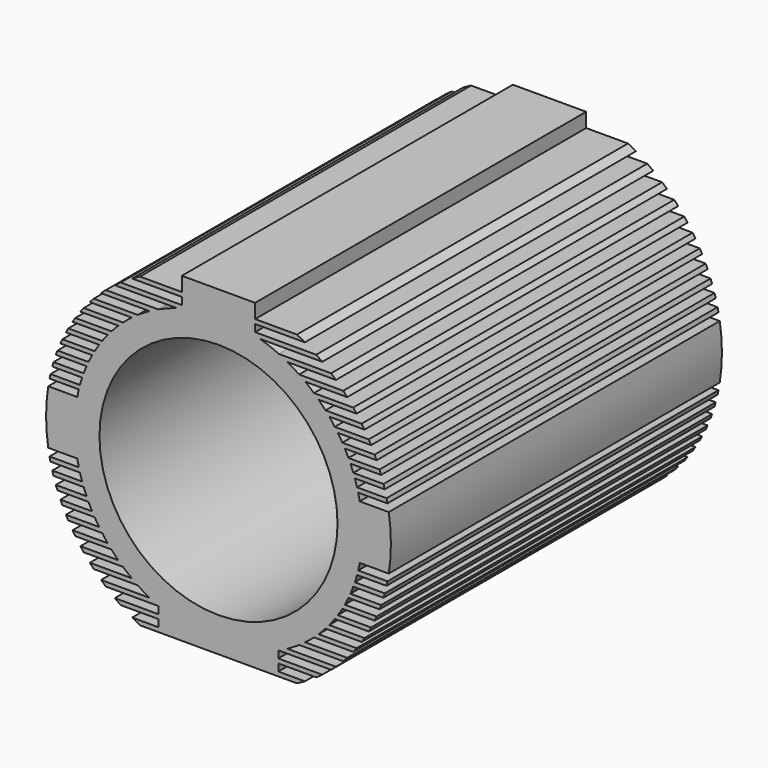
from build123d import *

# Parameters (mm, degrees)
F0_R     = 263.061008
F1_DEPTH = 914.4


with BuildPart() as f1:
    # F0 (on Front) → F1 (new body)
    with BuildSketch(Plane.XZ):
        with BuildLine():
            Line((306.118615, -85.261008), (371.337529, -85.261008))
            ThreePointArc((371.337529, -85.261008), (372.397543, -80.505092), (373.396648, -75.736008))
            Line((373.396648, -75.736008), (308.613193, -75.736008))
            ThreePointArc((308.613193, -75.736008), (307.402798, -80.50817), (306.118615, -85.261008))
        make_face()
        with BuildLine():
            ThreePointArc((301.246666, -101.136008), (303.786356, -93.230338), (306.118615, -85.261008))
            ThreePointArc((306.118615, -85.261008), (307.402798, -80.50817), (308.613193, -75.736008))
            Line((308.613193, -75.736008), (308.613193, -59.861008))
            Line((308.613193, -59.861008), (312.081248, -59.861008))
            ThreePointArc((312.081248, -59.861008), (316.344937, -30.065375), (317.770429, 0))
            ThreePointArc((317.770429, 0), (316.344937, 30.065375), (312.081248, 59.861008))
            Line((312.081248, 59.861008), (308.613193, 59.861008))
            Line((308.613193, 59.861008), (308.613193, 75.736008))
            ThreePointArc((308.613193, 75.736008), (307.402798, 80.50817), (306.118615, 85.261008))
            ThreePointArc((306.118615, 85.261008), (303.786356, 93.230338), (301.246666, 101.136008))
            ThreePointArc((301.246666, 101.136008), (299.60093, 105.91189), (297.879484, 110.661008))
            ThreePointArc((297.879484, 110.661008), (294.79185, 118.641523), (291.490454, 126.536008))
            ThreePointArc((291.490454, 126.536008), (289.36841, 131.316294), (287.167979, 136.061008))
            ThreePointArc((287.167979, 136.061008), (283.242261, 144.055084), (279.094062, 151.936008))
            ThreePointArc((279.094062, 151.936008), (276.435043, 156.721768), (273.693969, 161.461008))
            ThreePointArc((273.693969, 161.461008), (268.806898, 169.472409), (263.685392, 177.336008))
            ThreePointArc((263.685392, 177.336008), (260.397933, 182.128971), (257.023364, 186.861008))
            ThreePointArc((257.023364, 186.861008), (250.985252, 194.895996), (244.69605, 202.736008))
            ThreePointArc((244.69605, 202.736008), (240.635707, 207.539158), (236.481099, 212.261008))
            ThreePointArc((236.481099, 212.261008), (228.981068, 220.330925), (221.205804, 228.136008))
            ThreePointArc((221.205804, 228.136008), (216.124916, 232.955074), (210.93907, 237.661008))
            ThreePointArc((210.93907, 237.661008), (201.409012, 245.789454), (191.566016, 253.536008))
            ThreePointArc((191.566016, 253.536008), (184.974783, 258.384163), (178.26091, 263.061008))
            ThreePointArc((178.26091, 263.061008), (165.433975, 271.310976), (152.225981, 278.936008))
            ThreePointArc((152.225981, 278.936008), (142.841286, 283.856324), (133.29776, 288.461008))
            ThreePointArc((133.29776, 288.461008), (112.638965, 297.13719), (91.42013, 304.336008))
            ThreePointArc((91.42013, 304.336008), (86.206624, 305.853664), (80.967948, 307.282016))
            ThreePointArc((80.967948, 307.282016), (0, 317.770429), (-80.967948, 307.282016))
            ThreePointArc((-80.967948, 307.282016), (-86.206624, 305.853664), (-91.42013, 304.336008))
            ThreePointArc((-91.42013, 304.336008), (-112.638965, 297.13719), (-133.29776, 288.461008))
            ThreePointArc((-133.29776, 288.461008), (-142.841286, 283.856324), (-152.225981, 278.936008))
            ThreePointArc((-152.225981, 278.936008), (-165.433975, 271.310976), (-178.26091, 263.061008))
            ThreePointArc((-178.26091, 263.061008), (-184.974783, 258.384163), (-191.566016, 253.536008))
            ThreePointArc((-191.566016, 253.536008), (-201.409012, 245.789454), (-210.93907, 237.661008))
            ThreePointArc((-210.93907, 237.661008), (-216.124916, 232.955074), (-221.205804, 228.136008))
            ThreePointArc((-221.205804, 228.136008), (-228.981068, 220.330925), (-236.481099, 212.261008))
            ThreePointArc((-236.481099, 212.261008), (-240.635707, 207.539158), (-244.69605, 202.736008))
            ThreePointArc((-244.69605, 202.736008), (-250.985252, 194.895996), (-257.023364, 186.861008))
            ThreePointArc((-257.023364, 186.861008), (-260.397933, 182.128971), (-263.685392, 177.336008))
            ThreePointArc((-263.685392, 177.336008), (-268.806898, 169.472409), (-273.693969, 161.461008))
            ThreePointArc((-273.693969, 161.461008), (-276.435043, 156.721768), (-279.094062, 151.936008))
            ThreePointArc((-279.094062, 151.936008), (-283.242261, 144.055084), (-287.167979, 136.061008))
            ThreePointArc((-287.167979, 136.061008), (-289.36841, 131.316294), (-291.490454, 126.536008))
            ThreePointArc((-291.490454, 126.536008), (-294.79185, 118.641523), (-297.879484, 110.661008))
            ThreePointArc((-297.879484, 110.661008), (-299.60093, 105.91189), (-301.246666, 101.136008))
            ThreePointArc((-301.246666, 101.136008), (-303.786356, 93.230338), (-306.118615, 85.261008))
            ThreePointArc((-306.118615, 85.261008), (-307.402798, 80.50817), (-308.613193, 75.736008))
            Line((-308.613193, 75.736008), (-308.613193, 59.861008))
            Line((-308.613193, 59.861008), (-312.081248, 59.861008))
            ThreePointArc((-312.081248, 59.861008), (-317.770429, 0), (-312.081248, -59.861008))
            Line((-312.081248, -59.861008), (-308.613193, -59.861008))
            Line((-308.613193, -59.861008), (-308.613193, -75.736008))
            ThreePointArc((-308.613193, -75.736008), (-307.402798, -80.50817), (-306.118615, -85.261008))
            ThreePointArc((-306.118615, -85.261008), (-303.786356, -93.230338), (-301.246666, -101.136008))
            ThreePointArc((-301.246666, -101.136008), (-299.60093, -105.91189), (-297.879484, -110.661008))
            ThreePointArc((-297.879484, -110.661008), (-294.79185, -118.641523), (-291.490454, -126.536008))
            ThreePointArc((-291.490454, -126.536008), (-289.36841, -131.316294), (-287.167979, -136.061008))
            ThreePointArc((-287.167979, -136.061008), (-283.242261, -144.055084), (-279.094062, -151.936008))
            ThreePointArc((-279.094062, -151.936008), (-276.435043, -156.721768), (-273.693969, -161.461008))
            ThreePointArc((-273.693969, -161.461008), (-268.806898, -169.472409), (-263.685392, -177.336008))
            ThreePointArc((-263.685392, -177.336008), (-260.397933, -182.128971), (-257.023364, -186.861008))
            ThreePointArc((-257.023364, -186.861008), (-250.985252, -194.895996), (-244.69605, -202.736008))
            ThreePointArc((-244.69605, -202.736008), (-240.635707, -207.539158), (-236.481099, -212.261008))
            ThreePointArc((-236.481099, -212.261008), (-228.981068, -220.330925), (-221.205804, -228.136008))
            ThreePointArc((-221.205804, -228.136008), (-216.124916, -232.955074), (-210.93907, -237.661008))
            ThreePointArc((-210.93907, -237.661008), (-201.409012, -245.789454), (-191.566016, -253.536008))
            ThreePointArc((-191.566016, -253.536008), (-184.974783, -258.384163), (-178.26091, -263.061008))
            ThreePointArc((-178.26091, -263.061008), (-165.433975, -271.310976), (-152.225981, -278.936008))
            ThreePointArc((-152.225981, -278.936008), (-142.841286, -283.856324), (-133.29776, -288.461008))
            ThreePointArc((-133.29776, -288.461008), (-132.687346, -288.742297), (-132.076338, -289.022295))
            ThreePointArc((-132.076338, -289.022295), (0, -317.770429), (132.076338, -289.022295))
            ThreePointArc((132.076338, -289.022295), (132.687346, -288.742297), (133.29776, -288.461008))
            ThreePointArc((133.29776, -288.461008), (142.841286, -283.856324), (152.225981, -278.936008))
            ThreePointArc((152.225981, -278.936008), (165.433975, -271.310976), (178.26091, -263.061008))
            ThreePointArc((178.26091, -263.061008), (184.974783, -258.384163), (191.566016, -253.536008))
            ThreePointArc((191.566016, -253.536008), (201.409012, -245.789454), (210.93907, -237.661008))
            ThreePointArc((210.93907, -237.661008), (216.124916, -232.955074), (221.205804, -228.136008))
            ThreePointArc((221.205804, -228.136008), (228.981068, -220.330925), (236.481099, -212.261008))
            ThreePointArc((236.481099, -212.261008), (240.635707, -207.539158), (244.69605, -202.736008))
            ThreePointArc((244.69605, -202.736008), (250.985252, -194.895996), (257.023364, -186.861008))
            ThreePointArc((257.023364, -186.861008), (260.397933, -182.128971), (263.685392, -177.336008))
            ThreePointArc((263.685392, -177.336008), (268.806898, -169.472409), (273.693969, -161.461008))
            ThreePointArc((273.693969, -161.461008), (276.435043, -156.721768), (279.094062, -151.936008))
            ThreePointArc((279.094062, -151.936008), (283.242261, -144.055084), (287.167979, -136.061008))
            ThreePointArc((287.167979, -136.061008), (289.36841, -131.316294), (291.490454, -126.536008))
            ThreePointArc((291.490454, -126.536008), (294.79185, -118.641523), (297.879484, -110.661008))
            ThreePointArc((297.879484, -110.661008), (299.60093, -105.91189), (301.246666, -101.136008))
        make_face()
        Circle(F0_R, mode=Mode.SUBTRACT)
        with BuildLine():
            Line((308.613193, -59.861008), (308.613193, -75.736008))
            ThreePointArc((308.613193, -75.736008), (310.44871, -67.820679), (312.081248, -59.861008))
            Line((312.081248, -59.861008), (308.613193, -59.861008))
        make_face()
        with BuildLine():
            Line((367.331605, -101.136008), (301.246666, -101.136008))
            ThreePointArc((301.246666, -101.136008), (299.60093, -105.91189), (297.879484, -110.661008))
            Line((297.879484, -110.661008), (364.575289, -110.661008))
            ThreePointArc((364.575289, -110.661008), (365.984435, -105.907475), (367.331605, -101.136008))
        make_face()
        with BuildLine():
            ThreePointArc((317.770429, 0), (316.344937, -30.065375), (312.081248, -59.861008))
            Line((312.081248, -59.861008), (376.268069, -59.861008))
            ThreePointArc((376.268069, -59.861008), (381, 0), (376.268069, 59.861008))
            Line((376.268069, 59.861008), (312.081248, 59.861008))
            ThreePointArc((312.081248, 59.861008), (316.344937, 30.065375), (317.770429, 0))
        make_face()
        with BuildLine():
            Line((359.373954, -126.536008), (291.490454, -126.536008))
            ThreePointArc((291.490454, -126.536008), (289.36841, -131.316294), (287.167979, -136.061008))
            Line((287.167979, -136.061008), (355.876948, -136.061008))
            ThreePointArc((355.876948, -136.061008), (357.657161, -131.31015), (359.373954, -126.536008))
        make_face()
        with BuildLine():
            Line((308.613193, 59.861008), (312.081248, 59.861008))
            ThreePointArc((312.081248, 59.861008), (310.44871, 67.820679), (308.613193, 75.736008))
            Line((308.613193, 75.736008), (308.613193, 59.861008))
        make_face()
        with BuildLine():
            ThreePointArc((306.118615, 85.261008), (307.402798, 80.50817), (308.613193, 75.736008))
            Line((308.613193, 75.736008), (373.396648, 75.736008))
            ThreePointArc((373.396648, 75.736008), (372.397543, 80.505092), (371.337529, 85.261008))
            Line((371.337529, 85.261008), (306.118615, 85.261008))
        make_face()
        with BuildLine():
            Line((349.394404, -151.936008), (279.094062, -151.936008))
            ThreePointArc((279.094062, -151.936008), (276.435043, -156.721768), (273.693969, -161.461008))
            Line((273.693969, -161.461008), (345.096136, -161.461008))
            ThreePointArc((345.096136, -161.461008), (347.277927, -156.713245), (349.394404, -151.936008))
        make_face()
        with BuildLine():
            ThreePointArc((297.879484, 110.661008), (299.60093, 105.91189), (301.246666, 101.136008))
            Line((301.246666, 101.136008), (367.331605, 101.136008))
            ThreePointArc((367.331605, 101.136008), (365.984435, 105.907475), (364.575289, 110.661008))
            Line((364.575289, 110.661008), (297.879484, 110.661008))
        make_face()
        with BuildLine():
            Line((337.213494, -177.336008), (263.685392, -177.336008))
            ThreePointArc((263.685392, -177.336008), (260.397933, -182.128971), (257.023364, -186.861008))
            Line((257.023364, -186.861008), (332.030065, -186.861008))
            ThreePointArc((332.030065, -186.861008), (334.655668, -182.11695), (337.213494, -177.336008))
        make_face()
        with BuildLine():
            ThreePointArc((287.167979, 136.061008), (289.36841, 131.316294), (291.490454, 126.536008))
            Line((291.490454, 126.536008), (359.373954, 126.536008))
            ThreePointArc((359.373954, 126.536008), (357.657161, 131.31015), (355.876948, 136.061008))
            Line((355.876948, 136.061008), (287.167979, 136.061008))
        make_face()
        with BuildLine():
            Line((322.581945, -202.736008), (244.69605, -202.736008))
            ThreePointArc((244.69605, -202.736008), (240.635707, -207.539158), (236.481099, -212.261008))
            Line((236.481099, -212.261008), (316.39574, -212.261008))
            ThreePointArc((316.39574, -212.261008), (319.524337, -207.52156), (322.581945, -202.736008))
        make_face()
        with BuildLine():
            ThreePointArc((273.693969, 161.461008), (276.435043, 156.721768), (279.094062, 151.936008))
            Line((279.094062, 151.936008), (349.394404, 151.936008))
            ThreePointArc((349.394404, 151.936008), (347.277927, 156.713245), (345.096136, 161.461008))
            Line((345.096136, 161.461008), (273.693969, 161.461008))
        make_face()
        with BuildLine():
            Line((305.147443, -228.136008), (221.205804, -228.136008))
            ThreePointArc((221.205804, -228.136008), (216.124916, -232.955074), (210.93907, -237.661008))
            Line((210.93907, -237.661008), (297.788927, -237.661008))
            ThreePointArc((297.788927, -237.661008), (301.505801, -232.927568), (305.147443, -228.136008))
        make_face()
        with BuildLine():
            ThreePointArc((257.023364, 186.861008), (260.397933, 182.128971), (263.685392, 177.336008))
            Line((263.685392, 177.336008), (337.213494, 177.336008))
            ThreePointArc((337.213494, 177.336008), (334.655668, 182.11695), (332.030065, 186.861008))
            Line((332.030065, 186.861008), (257.023364, 186.861008))
        make_face()
        with BuildLine():
            Line((284.394959, -253.536008), (191.566016, -253.536008))
            ThreePointArc((191.566016, -253.536008), (184.974783, -258.384163), (178.26091, -263.061008))
            Line((178.26091, -263.061008), (275.608248, -263.061008))
            ThreePointArc((275.608248, -263.061008), (280.042103, -258.335868), (284.394959, -253.536008))
        make_face()
        with BuildLine():
            ThreePointArc((236.481099, 212.261008), (240.635707, 207.539158), (244.69605, 202.736008))
            Line((244.69605, 202.736008), (322.581945, 202.736008))
            ThreePointArc((322.581945, 202.736008), (319.524337, 207.52156), (316.39574, 212.261008))
            Line((316.39574, 212.261008), (236.481099, 212.261008))
        make_face()
        with BuildLine():
            Line((259.529774, -278.936008), (152.225981, -278.936008))
            ThreePointArc((152.225981, -278.936008), (142.841286, -283.856324), (133.29776, -288.461008))
            Line((133.29776, -288.461008), (248.900074, -288.461008))
            ThreePointArc((248.900074, -288.461008), (254.259531, -283.748288), (259.529774, -278.936008))
        make_face()
        with BuildLine():
            ThreePointArc((210.93907, 237.661008), (216.124916, 232.955074), (221.205804, 228.136008))
            Line((221.205804, 228.136008), (305.147443, 228.136008))
            ThreePointArc((305.147443, 228.136008), (301.505801, 232.927568), (297.788927, 237.661008))
            Line((297.788927, 237.661008), (210.93907, 237.661008))
        make_face()
        with BuildLine():
            Line((132.076338, -304.336008), (132.076338, -289.022295))
            ThreePointArc((132.076338, -289.022295), (0, -317.770429), (-132.076338, -289.022295))
            Line((-132.076338, -289.022295), (-132.076338, -304.336008))
            Line((-132.076338, -304.336008), (-132.076338, -313.861008))
            Line((-132.076338, -313.861008), (-132.076338, -329.736008))
            Line((-132.076338, -329.736008), (-132.076338, -339.261008))
            Line((-132.076338, -339.261008), (132.076338, -339.261008))
            Line((132.076338, -339.261008), (132.076338, -329.736008))
            Line((132.076338, -329.736008), (132.076338, -313.861008))
            Line((132.076338, -313.861008), (132.076338, -304.336008))
        make_face()
        with BuildLine():
            Line((229.217352, -304.336008), (132.076338, -304.336008))
            Line((132.076338, -304.336008), (132.076338, -313.861008))
            Line((132.076338, -313.861008), (215.99136, -313.861008))
            ThreePointArc((215.99136, -313.861008), (222.655296, -309.169241), (229.217352, -304.336008))
        make_face()
        with BuildLine():
            ThreePointArc((178.26091, 263.061008), (184.974783, 258.384163), (191.566016, 253.536008))
            Line((191.566016, 253.536008), (284.394959, 253.536008))
            ThreePointArc((284.394959, 253.536008), (280.042103, 258.335868), (275.608248, 263.061008))
            Line((275.608248, 263.061008), (178.26091, 263.061008))
        make_face()
        with BuildLine():
            Line((-248.900074, -288.461008), (-133.29776, -288.461008))
            ThreePointArc((-133.29776, -288.461008), (-142.841286, -283.856324), (-152.225981, -278.936008))
            Line((-152.225981, -278.936008), (-259.529774, -278.936008))
            ThreePointArc((-259.529774, -278.936008), (-254.259531, -283.748288), (-248.900074, -288.461008))
        make_face()
        with BuildLine():
            Line((-132.076338, -313.861008), (-132.076338, -304.336008))
            Line((-132.076338, -304.336008), (-229.217352, -304.336008))
            ThreePointArc((-229.217352, -304.336008), (-222.655296, -309.169241), (-215.99136, -313.861008))
            Line((-215.99136, -313.861008), (-132.076338, -313.861008))
        make_face()
        with BuildLine():
            Line((190.879976, -329.736008), (132.076338, -329.736008))
            Line((132.076338, -329.736008), (132.076338, -339.261008))
            Line((132.076338, -339.261008), (173.38676, -339.261008))
            ThreePointArc((173.38676, -339.261008), (182.195623, -334.612843), (190.879976, -329.736008))
        make_face()
        with BuildLine():
            ThreePointArc((133.29776, 288.461008), (142.841286, 283.856324), (152.225981, 278.936008))
            Line((152.225981, 278.936008), (259.529774, 278.936008))
            ThreePointArc((259.529774, 278.936008), (254.259531, 283.748288), (248.900074, 288.461008))
            Line((248.900074, 288.461008), (133.29776, 288.461008))
        make_face()
        with BuildLine():
            Line((-275.608248, -263.061008), (-178.26091, -263.061008))
            ThreePointArc((-178.26091, -263.061008), (-184.974783, -258.384163), (-191.566016, -253.536008))
            Line((-191.566016, -253.536008), (-284.394959, -253.536008))
            ThreePointArc((-284.394959, -253.536008), (-280.042103, -258.335868), (-275.608248, -263.061008))
        make_face()
        with BuildLine():
            Line((-132.076338, -339.261008), (-132.076338, -329.736008))
            Line((-132.076338, -329.736008), (-190.879976, -329.736008))
            ThreePointArc((-190.879976, -329.736008), (-182.195623, -334.612843), (-173.38676, -339.261008))
            Line((-173.38676, -339.261008), (-132.076338, -339.261008))
        make_face()
        with BuildLine():
            ThreePointArc((80.967948, 307.282016), (86.206624, 305.853664), (91.42013, 304.336008))
            Line((91.42013, 304.336008), (229.217352, 304.336008))
            ThreePointArc((229.217352, 304.336008), (222.655296, 309.169241), (215.99136, 313.861008))
            Line((215.99136, 313.861008), (80.967948, 313.861008))
            Line((80.967948, 313.861008), (80.967948, 307.282016))
        make_face()
        with BuildLine():
            Line((-297.788927, -237.661008), (-210.93907, -237.661008))
            ThreePointArc((-210.93907, -237.661008), (-216.124916, -232.955074), (-221.205804, -228.136008))
            Line((-221.205804, -228.136008), (-305.147443, -228.136008))
            ThreePointArc((-305.147443, -228.136008), (-301.505801, -232.927568), (-297.788927, -237.661008))
        make_face()
        with BuildLine():
            ThreePointArc((-80.967948, 307.282016), (0, 317.770429), (80.967948, 307.282016))
            Line((80.967948, 307.282016), (80.967948, 313.861008))
            Line((80.967948, 313.861008), (80.967948, 329.736008))
            Line((80.967948, 329.736008), (80.967948, 339.261008))
            Line((80.967948, 339.261008), (80.967948, 370.897353))
            Line((80.967948, 370.897353), (-80.967948, 370.897353))
            Line((-80.967948, 370.897353), (-80.967948, 339.261008))
            Line((-80.967948, 339.261008), (-80.967948, 329.736008))
            Line((-80.967948, 329.736008), (-80.967948, 313.861008))
            Line((-80.967948, 313.861008), (-80.967948, 307.282016))
        make_face()
        with BuildLine():
            ThreePointArc((-91.42013, 304.336008), (-86.206624, 305.853664), (-80.967948, 307.282016))
            Line((-80.967948, 307.282016), (-80.967948, 313.861008))
            Line((-80.967948, 313.861008), (-215.99136, 313.861008))
            ThreePointArc((-215.99136, 313.861008), (-222.655296, 309.169241), (-229.217352, 304.336008))
            Line((-229.217352, 304.336008), (-91.42013, 304.336008))
        make_face()
        with BuildLine():
            Line((-316.39574, -212.261008), (-236.481099, -212.261008))
            ThreePointArc((-236.481099, -212.261008), (-240.635707, -207.539158), (-244.69605, -202.736008))
            Line((-244.69605, -202.736008), (-322.581945, -202.736008))
            ThreePointArc((-322.581945, -202.736008), (-319.524337, -207.52156), (-316.39574, -212.261008))
        make_face()
        with BuildLine():
            Line((80.967948, 339.261008), (80.967948, 329.736008))
            Line((80.967948, 329.736008), (190.879976, 329.736008))
            ThreePointArc((190.879976, 329.736008), (182.195623, 334.612843), (173.38676, 339.261008))
            Line((173.38676, 339.261008), (80.967948, 339.261008))
        make_face()
        with BuildLine():
            ThreePointArc((-152.225981, 278.936008), (-142.841286, 283.856324), (-133.29776, 288.461008))
            Line((-133.29776, 288.461008), (-248.900074, 288.461008))
            ThreePointArc((-248.900074, 288.461008), (-254.259531, 283.748288), (-259.529774, 278.936008))
            Line((-259.529774, 278.936008), (-152.225981, 278.936008))
        make_face()
        with BuildLine():
            Line((-190.879976, 329.736008), (-80.967948, 329.736008))
            Line((-80.967948, 329.736008), (-80.967948, 339.261008))
            Line((-80.967948, 339.261008), (-173.38676, 339.261008))
            ThreePointArc((-173.38676, 339.261008), (-182.195623, 334.612843), (-190.879976, 329.736008))
        make_face()
        with BuildLine():
            Line((-332.030065, -186.861008), (-257.023364, -186.861008))
            ThreePointArc((-257.023364, -186.861008), (-260.397933, -182.128971), (-263.685392, -177.336008))
            Line((-263.685392, -177.336008), (-337.213494, -177.336008))
            ThreePointArc((-337.213494, -177.336008), (-334.655668, -182.11695), (-332.030065, -186.861008))
        make_face()
        with BuildLine():
            ThreePointArc((-191.566016, 253.536008), (-184.974783, 258.384163), (-178.26091, 263.061008))
            Line((-178.26091, 263.061008), (-275.608248, 263.061008))
            ThreePointArc((-275.608248, 263.061008), (-280.042103, 258.335868), (-284.394959, 253.536008))
            Line((-284.394959, 253.536008), (-191.566016, 253.536008))
        make_face()
        with BuildLine():
            Line((-345.096136, -161.461008), (-273.693969, -161.461008))
            ThreePointArc((-273.693969, -161.461008), (-276.435043, -156.721768), (-279.094062, -151.936008))
            Line((-279.094062, -151.936008), (-349.394404, -151.936008))
            ThreePointArc((-349.394404, -151.936008), (-347.277927, -156.713245), (-345.096136, -161.461008))
        make_face()
        with BuildLine():
            ThreePointArc((-221.205804, 228.136008), (-216.124916, 232.955074), (-210.93907, 237.661008))
            Line((-210.93907, 237.661008), (-297.788927, 237.661008))
            ThreePointArc((-297.788927, 237.661008), (-301.505801, 232.927568), (-305.147443, 228.136008))
            Line((-305.147443, 228.136008), (-221.205804, 228.136008))
        make_face()
        with BuildLine():
            Line((-355.876948, -136.061008), (-287.167979, -136.061008))
            ThreePointArc((-287.167979, -136.061008), (-289.36841, -131.316294), (-291.490454, -126.536008))
            Line((-291.490454, -126.536008), (-359.373954, -126.536008))
            ThreePointArc((-359.373954, -126.536008), (-357.657161, -131.31015), (-355.876948, -136.061008))
        make_face()
        with BuildLine():
            ThreePointArc((-244.69605, 202.736008), (-240.635707, 207.539158), (-236.481099, 212.261008))
            Line((-236.481099, 212.261008), (-316.39574, 212.261008))
            ThreePointArc((-316.39574, 212.261008), (-319.524337, 207.52156), (-322.581945, 202.736008))
            Line((-322.581945, 202.736008), (-244.69605, 202.736008))
        make_face()
        with BuildLine():
            Line((-364.575289, -110.661008), (-297.879484, -110.661008))
            ThreePointArc((-297.879484, -110.661008), (-299.60093, -105.91189), (-301.246666, -101.136008))
            Line((-301.246666, -101.136008), (-367.331605, -101.136008))
            ThreePointArc((-367.331605, -101.136008), (-365.984435, -105.907475), (-364.575289, -110.661008))
        make_face()
        with BuildLine():
            ThreePointArc((-263.685392, 177.336008), (-260.397933, 182.128971), (-257.023364, 186.861008))
            Line((-257.023364, 186.861008), (-332.030065, 186.861008))
            ThreePointArc((-332.030065, 186.861008), (-334.655668, 182.11695), (-337.213494, 177.336008))
            Line((-337.213494, 177.336008), (-263.685392, 177.336008))
        make_face()
        with BuildLine():
            Line((-371.337529, -85.261008), (-306.118615, -85.261008))
            ThreePointArc((-306.118615, -85.261008), (-307.402798, -80.50817), (-308.613193, -75.736008))
            Line((-308.613193, -75.736008), (-373.396648, -75.736008))
            ThreePointArc((-373.396648, -75.736008), (-372.397543, -80.505092), (-371.337529, -85.261008))
        make_face()
        with BuildLine():
            ThreePointArc((-312.081248, -59.861008), (-310.44871, -67.820679), (-308.613193, -75.736008))
            Line((-308.613193, -75.736008), (-308.613193, -59.861008))
            Line((-308.613193, -59.861008), (-312.081248, -59.861008))
        make_face()
        with BuildLine():
            ThreePointArc((-279.094062, 151.936008), (-276.435043, 156.721768), (-273.693969, 161.461008))
            Line((-273.693969, 161.461008), (-345.096136, 161.461008))
            ThreePointArc((-345.096136, 161.461008), (-347.277927, 156.713245), (-349.394404, 151.936008))
            Line((-349.394404, 151.936008), (-279.094062, 151.936008))
        make_face()
        with BuildLine():
            Line((-376.268069, -59.861008), (-312.081248, -59.861008))
            ThreePointArc((-312.081248, -59.861008), (-317.770429, 0), (-312.081248, 59.861008))
            Line((-312.081248, 59.861008), (-376.268069, 59.861008))
            ThreePointArc((-376.268069, 59.861008), (-381, 0), (-376.268069, -59.861008))
        make_face()
        with BuildLine():
            ThreePointArc((-308.613193, 75.736008), (-310.44871, 67.820679), (-312.081248, 59.861008))
            Line((-312.081248, 59.861008), (-308.613193, 59.861008))
            Line((-308.613193, 59.861008), (-308.613193, 75.736008))
        make_face()
        with BuildLine():
            ThreePointArc((-291.490454, 126.536008), (-289.36841, 131.316294), (-287.167979, 136.061008))
            Line((-287.167979, 136.061008), (-355.876948, 136.061008))
            ThreePointArc((-355.876948, 136.061008), (-357.657161, 131.31015), (-359.373954, 126.536008))
            Line((-359.373954, 126.536008), (-291.490454, 126.536008))
        make_face()
        with BuildLine():
            Line((-373.396648, 75.736008), (-308.613193, 75.736008))
            ThreePointArc((-308.613193, 75.736008), (-307.402798, 80.50817), (-306.118615, 85.261008))
            Line((-306.118615, 85.261008), (-371.337529, 85.261008))
            ThreePointArc((-371.337529, 85.261008), (-372.397543, 80.505092), (-373.396648, 75.736008))
        make_face()
        with BuildLine():
            ThreePointArc((-301.246666, 101.136008), (-299.60093, 105.91189), (-297.879484, 110.661008))
            Line((-297.879484, 110.661008), (-364.575289, 110.661008))
            ThreePointArc((-364.575289, 110.661008), (-365.984435, 105.907475), (-367.331605, 101.136008))
            Line((-367.331605, 101.136008), (-301.246666, 101.136008))
        make_face()
    extrude(amount=F1_DEPTH)


solid = f1.part
